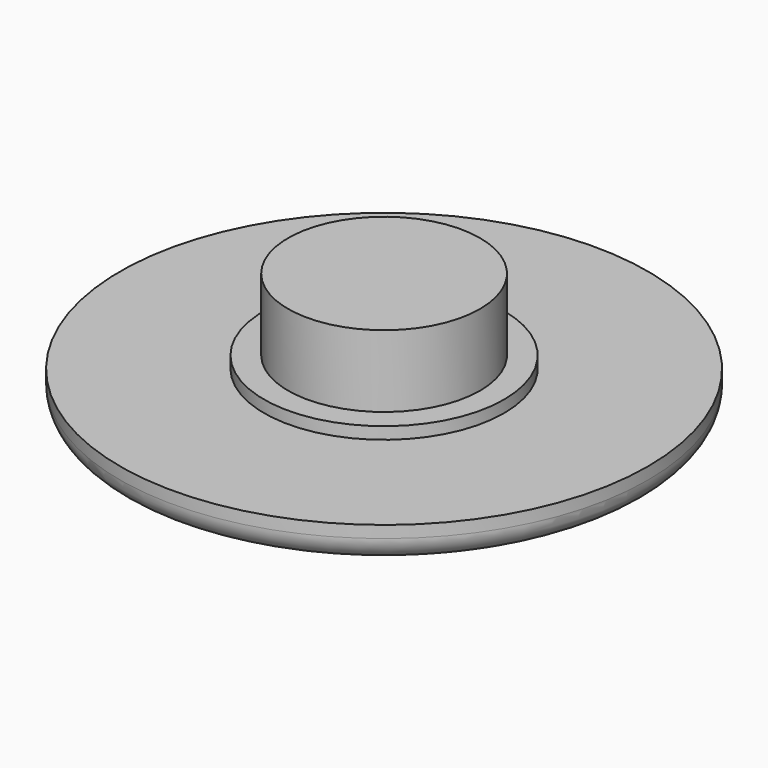
from build123d import *

# Parameters (mm, degrees)
F0_R     = 11
F0_R_2   = 5
F1_DEPTH = 1.5
F0_R_3   = 4
F2_DEPTH = 2
F3_DEPTH = 5
F4_R     = 1


with BuildPart() as f1:
    # F0 (on Top) → F1 (new body)
    with BuildSketch(Plane.XY):
        Circle(F0_R)
        Circle(F0_R_2, mode=Mode.SUBTRACT)
    extrude(amount=F1_DEPTH)

    # F0 (on Top) → F2 (join)
    with BuildSketch(Plane.XY):
        Circle(F0_R_2)
        Circle(F0_R_3, mode=Mode.SUBTRACT)
    extrude(amount=F2_DEPTH)

    # F0 (on Top) → F3 (join)
    with BuildSketch(Plane.XY):
        Circle(F0_R_3)
    extrude(amount=F3_DEPTH)

    # F4
    f4_edges = [f1.edges().sort_by_distance(p)[0] for p in [
        (-11, 0, 0),
    ]]
    fillet(f4_edges, radius=F4_R)


solid = f1.part
